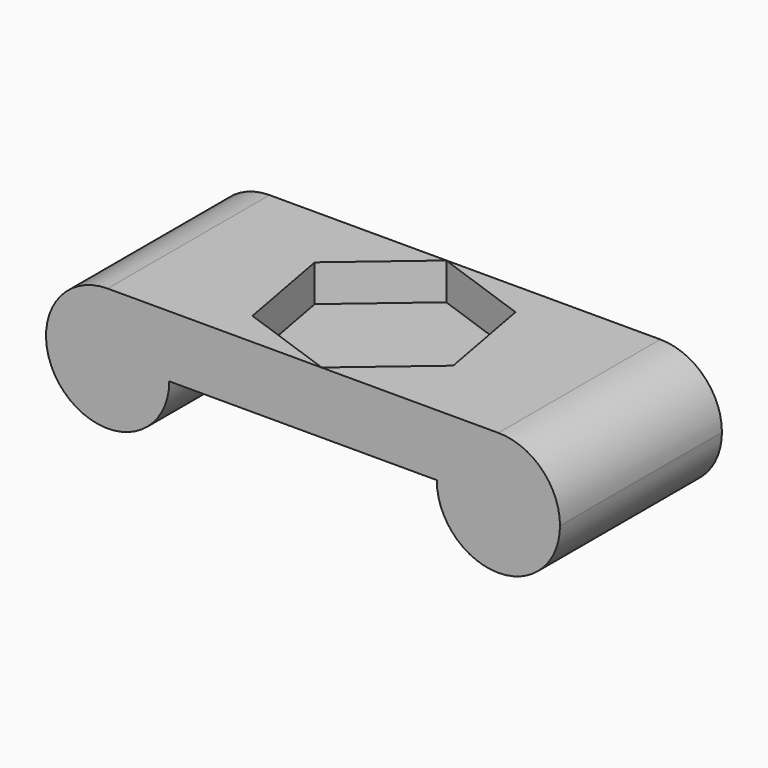
from build123d import *

# Parameters (mm, degrees)
F1_DEPTH = 27.5
F3_DEPTH = 10


with BuildPart() as f1:
    # F0 (on Front) → F1 (new body, symmetric)
    with BuildSketch(Plane.XZ):
        with BuildLine():
            ThreePointArc((69.832981, -8.371785), (64.928902, 3.467707), (53.08941, 8.371785))
            Line((53.08941, 8.371785), (53.08941, -8.371785))
            Line((53.08941, -8.371785), (36.34584, -8.371785))
            ThreePointArc((36.34584, -8.371785), (53.08941, -25.115356), (69.832981, -8.371785))
        make_face()
        with BuildLine():
            ThreePointArc((36.34584, -8.371785), (41.249918, 3.467707), (53.08941, 8.371785))
            Line((53.08941, 8.371785), (-53.08941, 8.371785))
            ThreePointArc((-53.08941, 8.371785), (-41.249918, 3.467707), (-36.34584, -8.371785))
            Line((-36.34584, -8.371785), (36.34584, -8.371785))
        make_face()
        with BuildLine():
            Line((-53.08941, -8.371785), (-53.08941, 8.371785))
            ThreePointArc((-53.08941, 8.371785), (-64.928902, -20.211278), (-36.34584, -8.371785))
            Line((-36.34584, -8.371785), (-53.08941, -8.371785))
        make_face()
        with BuildLine():
            Line((53.08941, -8.371785), (53.08941, 8.371785))
            ThreePointArc((53.08941, 8.371785), (41.249918, 3.467707), (36.34584, -8.371785))
            Line((36.34584, -8.371785), (53.08941, -8.371785))
        make_face()
        with BuildLine():
            ThreePointArc((-36.34584, -8.371785), (-41.249918, 3.467707), (-53.08941, 8.371785))
            Line((-53.08941, 8.371785), (-53.08941, -8.371785))
            Line((-53.08941, -8.371785), (-36.34584, -8.371785))
        make_face()
    extrude(amount=F1_DEPTH, both=True)

    # F2 (on face) → F3 (cut)
    with BuildSketch(Plane.XY.offset(8.371785)):
        Polygon((26.301491, -9.362252), (21.258693, 18.096633), (-5.042798, 27.458885), (-26.301491, 9.362252), (-21.258693, -18.096633), (5.042798, -27.458885), align=None)
    extrude(amount=-F3_DEPTH, mode=Mode.SUBTRACT)


solid = f1.part
